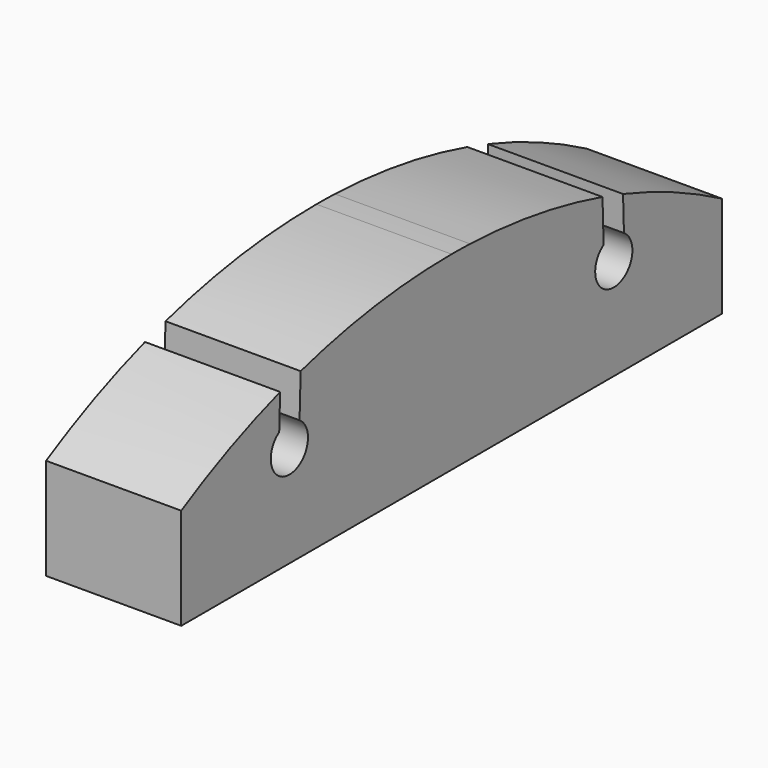
from build123d import *

# Parameters (mm, degrees)
F1_DEPTH = 25.4


with BuildPart() as f1:
    # F0 (on Right) → F1 (new body)
    with BuildSketch(Plane.YZ):
        with BuildLine():
            Line((-83.423497, 39.198399), (-83.423497, 20.148399))
            Line((-83.423497, 20.148399), (16.295009, 20.148399))
            Line((16.295009, 20.148399), (21.070209, 20.148399))
            Line((21.070209, 20.148399), (43.576503, 20.148399))
            Line((43.576503, 20.148399), (43.576503, 39.198399))
            ThreePointArc((43.576503, 39.198399), (32.213006, 44.871361), (20.348797, 49.404805))
            Line((20.348797, 49.404805), (20.564103, 42.857057))
            ThreePointArc((20.564103, 42.857057), (18.176503, 34.829599), (15.788903, 42.857057))
            Line((15.788903, 42.857057), (15.525138, 50.878518))
            ThreePointArc((15.525138, 50.878518), (0.130363, 54.259797), (-15.561022, 55.747269))
            ThreePointArc((-15.561022, 55.747269), (-17.74195, 55.80235), (-19.923497, 55.820712))
            ThreePointArc((-19.923497, 55.820712), (-37.819243, 54.579217), (-55.372131, 50.878518))
            Line((-55.372131, 50.878518), (-55.635897, 42.857057))
            ThreePointArc((-55.635897, 42.857057), (-58.023497, 34.829599), (-60.411097, 42.857057))
            Line((-60.411097, 42.857057), (-60.19579, 49.404805))
            ThreePointArc((-60.19579, 49.404805), (-72.059999, 44.871361), (-83.423497, 39.198399))
        make_face()
    extrude(amount=F1_DEPTH)


solid = f1.part
